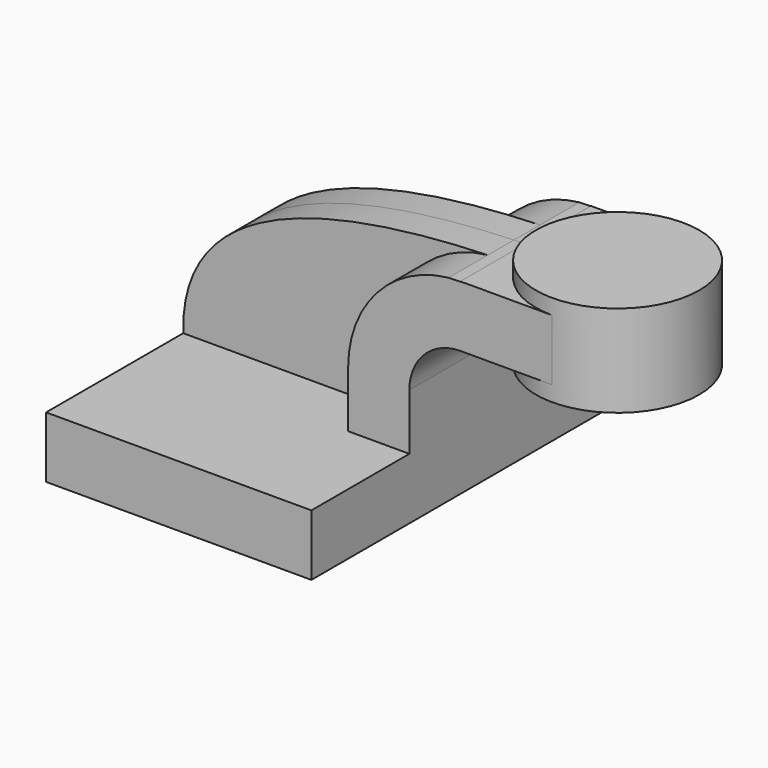
from build123d import *

# Parameters (mm, degrees)
F1_DEPTH = 63.5
F0_W     = 25.4
F0_H     = 19.05
F2_DEPTH = 25.4
F4_DEPTH = 10.16


with BuildPart() as f1:
    # F0 (on Front) → F1 (new body, symmetric)
    with BuildSketch(Plane.XZ):
        Polygon((22.225, 9.525), (-41.275, 9.525), (-41.275, -9.525), (41.275, -9.525), (41.275, 9.525), align=None)
    extrude(amount=F1_DEPTH, both=True)

    # F0 (on Front) → F2 (join, symmetric)
    with BuildSketch(Plane.XZ):
        with Locations((73.025, 52.4002)):
            Rectangle(F0_W, F0_H)
        with BuildLine():
            Line((22.225, 27.0002), (22.225, 9.525))
            Line((22.225, 9.525), (41.275, 9.525))
            Line((41.275, 9.525), (41.275, 27.0002))
            ThreePointArc((41.275, 27.0002), (45.9246798487, 38.2255201513), (57.15, 42.8752))
            Line((57.15, 42.8752), (60.325, 42.8752))
            Line((60.325, 42.8752), (60.325, 61.9252))
            Line((60.325, 61.9252), (57.15, 61.9252))
            ThreePointArc((57.15, 61.9252), (57.9844058032, 61.9152310319), (58.8183352619, 61.8853298185))
            add(Edge.make_bspline(
                [(53.4926140261, 61.7331692488), (55.2678452384, 61.7956996578), (57.0438857135, 61.8460829523), (58.8183352619, 61.8853298185)],
                knots=[108.9494313883, 108.9494313883, 108.9494313883, 108.9494313883, 112.9614089083, 112.9614089083, 112.9614089083, 112.9614089083], degree=3))
            ThreePointArc((53.4926140261, 61.7331692488), (31.1934032456, 50.3670720613), (22.225, 27.0002))
        make_face()
    extrude(amount=F2_DEPTH, both=True)

    # F0 (on Front) → F3 (revolve)
    with BuildSketch(Plane.XZ):
        Polygon((85.725, 66.675), (85.725, 61.9252), (85.725, 42.8752), (85.725, 38.1), (111.125, 38.1), (111.125, 66.675), align=None)
    revolve(axis=Axis((85.725, 0, 52.3875), (0, 0, -1)))

    # F0 (on Front) → F4 (join, symmetric)
    with BuildSketch(Plane.XZ):
        with BuildLine():
            add(Edge.make_bspline(
                [(-41.275, 9.525), (-42.3271025426, 49.3791151261), (5.2843600658, 60.0350908151), (53.4926140261, 61.7331692488)],
                knots=[0, 0, 0, 0, 108.9494313883, 108.9494313883, 108.9494313883, 108.9494313883], degree=3))
            Line((-41.275, 9.525), (22.225, 9.525))
            Line((22.225, 9.525), (22.225, 27.0002))
            ThreePointArc((22.225, 27.0002), (31.1934032456, 50.3670720613), (53.4926140261, 61.7331692488))
        make_face()
    extrude(amount=F4_DEPTH, both=True)


solid = f1.part
